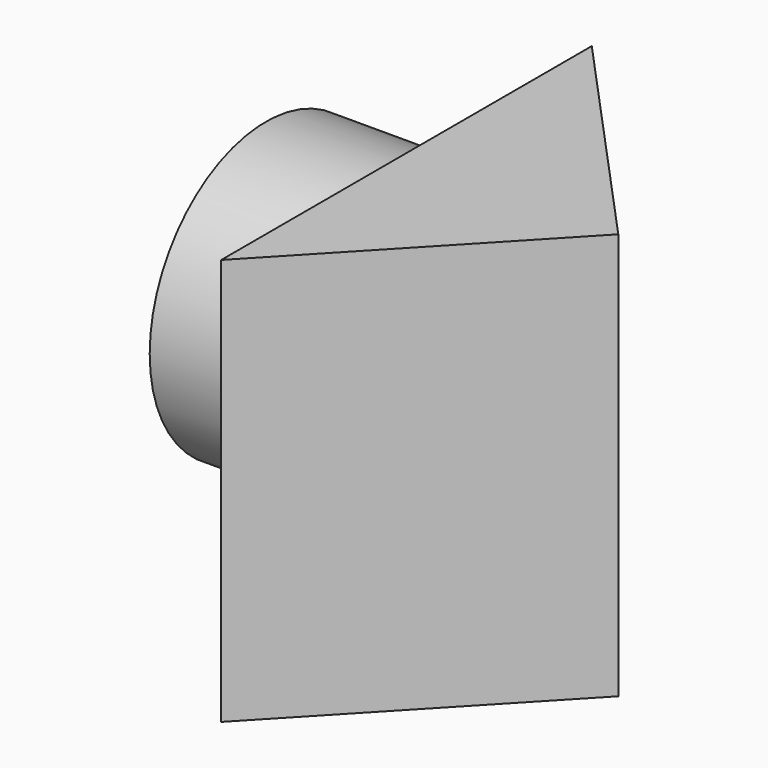
from build123d import *

# Parameters (mm, degrees)
F1_DEPTH = 100
F2_R     = 35.738032
F2_R_2   = 13.335667
F3_DEPTH = 38.49802


with BuildPart() as f1:
    # F0 (on Top) → F1 (new body)
    with BuildSketch(Plane.XY):
        Polygon((-52.872349, 57.934657), (-52.872349, -55.951525), (0, 0), align=None)
    extrude(amount=F1_DEPTH)

    # F2 (on face) → F3 (join)
    with BuildSketch(Plane(origin=(-52.872349, 0, 0), x_dir=(0, -1, 0), z_dir=(-1, 0, 0))):
        with Locations((-5.926131, 56.533087)):
            Circle(F2_R)
        with Locations((-20.67345, 55.327468)):
            Circle(F2_R_2, mode=Mode.SUBTRACT)
    extrude(amount=F3_DEPTH)


solid = f1.part
